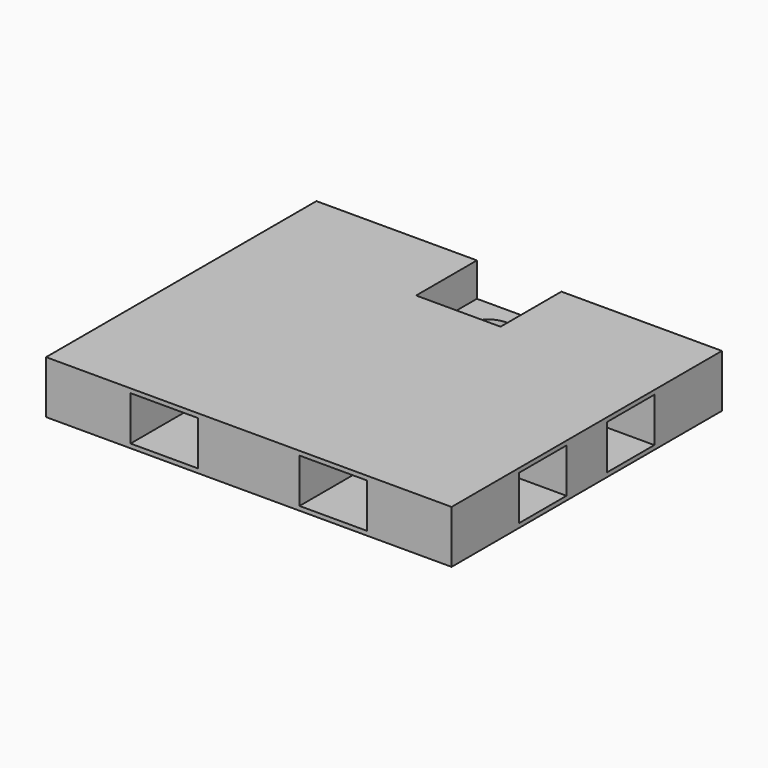
from build123d import *

# Parameters (mm, degrees)
F0_W     = 1219.2
F0_H     = 1016
F1_DEPTH = 12.7
F2_W     = 254
F2_H     = 254
F2_W_2   = 304.8
F2_H_2   = 152.4
F3_DEPTH = 133.35
F4_W     = 1219.2
F4_H     = 1016
F5_DEPTH = 12.7
F6_W     = 254
F6_H     = 228.6
F7_DEPTH = 101.6
F8_R     = 63.5
F9_DEPTH = 57.151


with BuildPart() as f1:
    # F0 (on Top) → F1 (new body)
    with BuildSketch(Plane.XY):
        Rectangle(F0_W, F0_H)
    extrude(amount=F1_DEPTH)

    # F2 (on face) → F3 (join)
    with BuildSketch(Plane.XY.offset(12.7)):
        with Locations((-482.6, 381)):
            Rectangle(F2_W, F2_H)
        with Locations((482.6, 381)):
            Rectangle(F2_W, F2_H)
        with Locations((482.6, -381)):
            Rectangle(F2_W, F2_H)
        with Locations((-482.6, -381)):
            Rectangle(F2_W, F2_H)
        with Locations((0, 381)):
            Rectangle(F2_W_2, F2_H)
        with Locations((0, -381)):
            Rectangle(F2_W_2, F2_H)
        with Locations((482.6, 0)):
            Rectangle(F2_W, F2_H_2)
        with Locations((-482.6, 0)):
            Rectangle(F2_W, F2_H_2)
        Rectangle(F2_W_2, F2_H_2)
    extrude(amount=F3_DEPTH)

    # F4 (on face) → F5 (join)
    with BuildSketch(Plane.XY.offset(146.05)):
        Rectangle(F4_W, F4_H)
    extrude(amount=F5_DEPTH)

    # F6 (on face) → F7 (cut)
    with BuildSketch(Plane.XY.offset(158.75)):
        with Locations((0, 393.7)):
            Rectangle(F6_W, F6_H)
    extrude(amount=-F7_DEPTH, mode=Mode.SUBTRACT)

    # F8 (on face) → F9 (cut, through all)
    with BuildSketch(Plane.XY.offset(57.15)):
        with Locations((0, 393.7)):
            Circle(F8_R)
    extrude(amount=-F9_DEPTH, mode=Mode.SUBTRACT)


solid = f1.part
